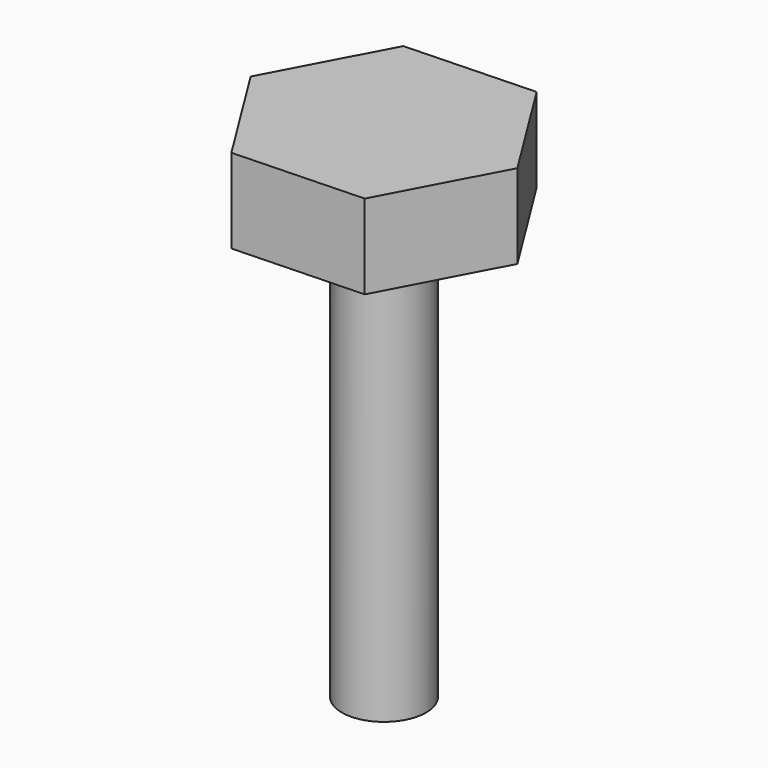
from build123d import *

# Parameters (mm, degrees)
F0_R     = 1.905
F1_DEPTH = 19.05
F3_DEPTH = 3.81


with BuildPart() as f1:
    # F0 (on Top) → F1 (new body)
    with BuildSketch(Plane.XY):
        Circle(F0_R)
    extrude(amount=F1_DEPTH)

    # F2 (on face) → F3 (join)
    with BuildSketch(Plane.XY.offset(19.05)):
        Polygon((5.862305, 0.204725), (2.753855, 5.179268), (-3.10845, 4.974543), (-5.862305, -0.204725), (-2.753855, -5.179268), (3.10845, -4.974543), align=None)
    extrude(amount=F3_DEPTH)


solid = f1.part
